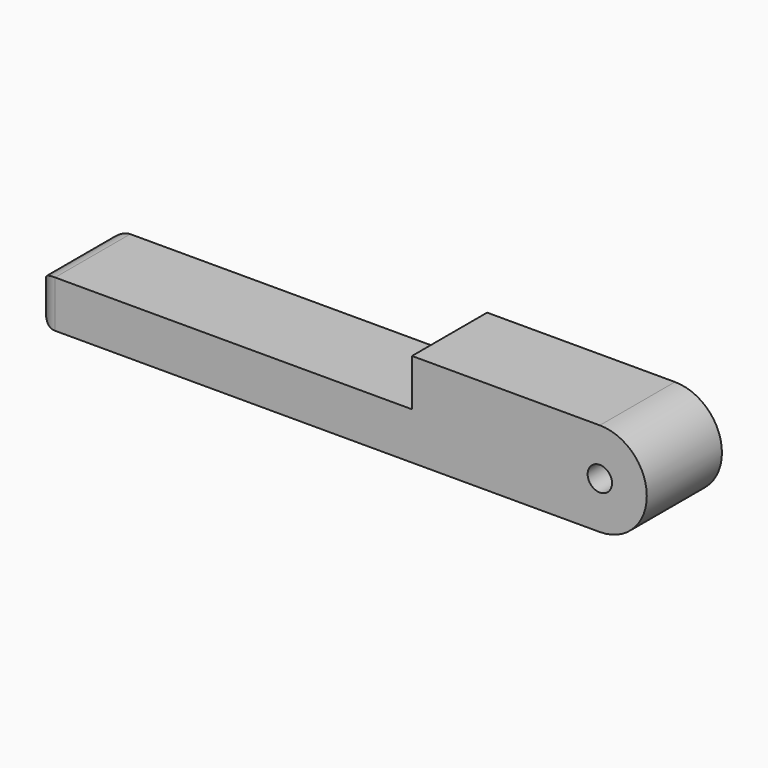
from build123d import *

# Parameters (mm, degrees)
F1_DEPTH       = 12.7
F3_D           = 3.302
F3_CBORE_D     = 6.5024
F3_CBORE_DEPTH = 0
F4_R           = 2.54


with BuildPart() as f1:
    # F0 (on Front) → F1 (new body)
    with BuildSketch(Plane.XZ):
        with BuildLine():
            Line((-50.8, 0), (0, 0))
            Line((0, 0), (25.4, 0))
            ThreePointArc((25.4, 0), (31.75, 6.35), (25.4, 12.7))
            Line((25.4, 12.7), (0, 12.7))
            Line((0, 12.7), (0, 6.35))
            Line((0, 6.35), (-50.8, 6.35))
            Line((-50.8, 6.35), (-50.8, 0))
        make_face()
    extrude(amount=F1_DEPTH)

    # F3 (through all)
    with Locations(Plane.XZ.offset(12.7)):
        with Locations((25.4, 6.35)):
            CounterBoreHole(F3_D / 2, F3_CBORE_D / 2, F3_CBORE_DEPTH)

    # F4
    f4_edges = [f1.edges().sort_by_distance(p)[0] for p in [
        (-50.8, -6.35, 6.35),
        (-50.8, -6.35, 0),
        (-50.8, 0, 3.175),
        (-50.8, -12.7, 3.175),
    ]]
    fillet(f4_edges, radius=F4_R)


solid = f1.part
